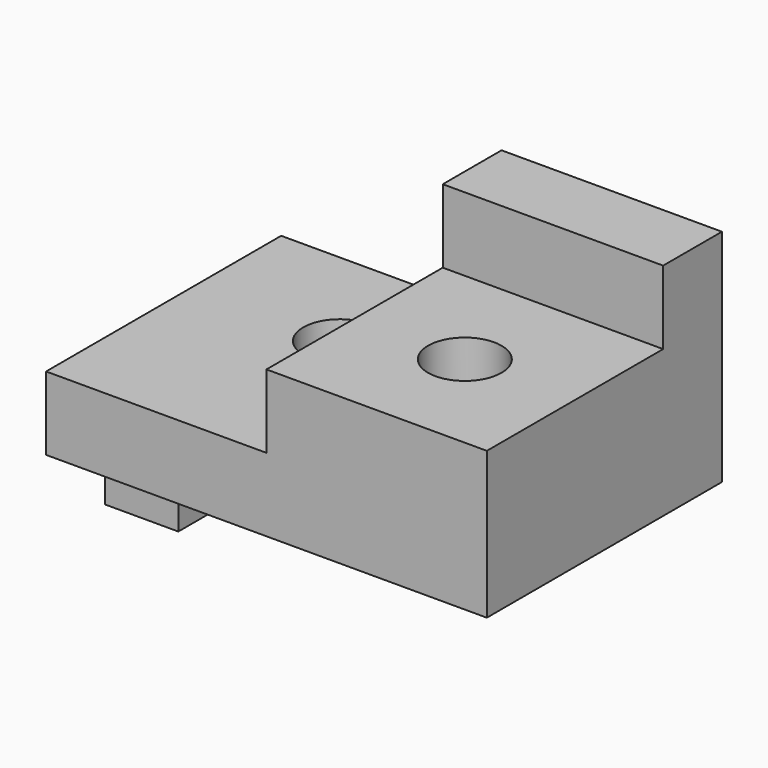
from build123d import *

# Parameters (mm, degrees)
F0_W     = 6.35
F0_H     = 6.35
F1_DEPTH = 19.05
F2_DEPTH = 25.4
F0_W_2   = 19.05
F3_DEPTH = 6.35
F4_R     = 3.175
F5_DEPTH = 25.4
F6_R     = 3.175
F7_DEPTH = 25.4


with BuildPart() as f1:
    # F0 (on Front) → F1 (new body)
    with BuildSketch(Plane.XZ):
        with Locations((3.175, 3.175)):
            Rectangle(F0_W, F0_H)
    extrude(amount=F1_DEPTH)

    # F0 (on Front) → F2 (join)
    with BuildSketch(Plane.XZ):
        Polygon((0, 12.7), (0, 6.35), (6.35, 6.35), (38.1, 6.35), (38.1, 19.05), (19.05, 19.05), (19.05, 12.7), align=None)
    extrude(amount=F2_DEPTH)

    # F0 (on Front) → F3 (join)
    with BuildSketch(Plane.XZ):
        with Locations((28.575, 22.225)):
            Rectangle(F0_W_2, F0_H)
    extrude(amount=F3_DEPTH)

    # F4 (on face) → F5 (cut)
    with BuildSketch(Plane.XY.offset(12.7)):
        with Locations((12.7, -9.525)):
            Circle(F4_R)
    extrude(amount=-F5_DEPTH, mode=Mode.SUBTRACT)

    # F6 (on face) → F7 (cut)
    with BuildSketch(Plane.XY.offset(19.05)):
        with Locations((28.575, -15.875)):
            Circle(F6_R)
    extrude(amount=-F7_DEPTH, mode=Mode.SUBTRACT)


solid = f1.part
